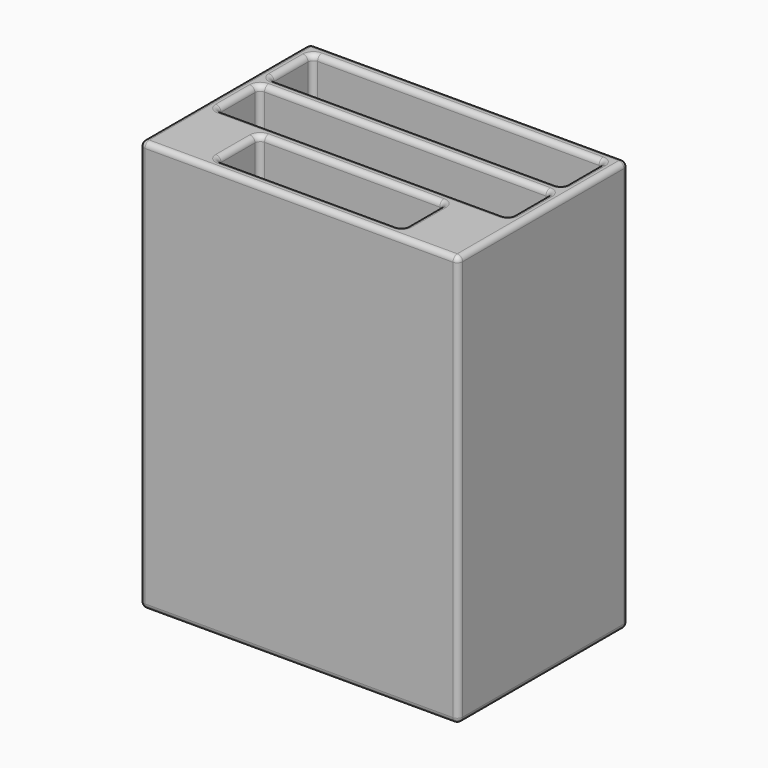
from build123d import *

# Parameters (mm, degrees)
SKETCH_W      = 60
SKETCH_H      = 40
PAD_DEPTH     = 2.5
SKETCH001_W   = 60
SKETCH001_H   = 40
SKETCH001_W_2 = 55
SKETCH001_H_2 = 10
SKETCH001_W_3 = 35
PAD001_DEPTH  = 75
FILLET_R      = 1


with BuildPart() as part:
    # Sketch → Pad (new body)
    with BuildSketch(Plane.XY):
        Rectangle(SKETCH_W, SKETCH_H)
    extrude(amount=PAD_DEPTH)

    # Sketch001 (on Face6 of Pad) → Pad001 (join)
    with BuildSketch(Plane.XY.offset(2.5)):
        Rectangle(SKETCH001_W, SKETCH001_H)
        with Locations((0, 12.5)):
            Rectangle(SKETCH001_W_2, SKETCH001_H_2, mode=Mode.SUBTRACT)
        Rectangle(SKETCH001_W_2, SKETCH001_H_2, mode=Mode.SUBTRACT)
        with Locations((0, -12.5)):
            Rectangle(SKETCH001_W_3, SKETCH001_H_2, mode=Mode.SUBTRACT)
    extrude(amount=PAD001_DEPTH)

    # Fillet
    fillet_edges = [part.edges().sort_by_distance(p)[0] for p in [
        (-30, 0, 0),
        (0, -20, 0),
        (30, 0, 0),
        (0, 20, 0),
        (-30, -20, 38.75),
        (-30, 0, 77.5),
        (-30, 20, 38.75),
        (0, -20, 77.5),
        (30, 0, 77.5),
        (0, 20, 77.5),
        (-27.5, 0, 77.5),
        (0, -5, 77.5),
        (27.5, 0, 77.5),
        (0, 5, 77.5),
        (-27.5, 12.5, 77.5),
        (0, 7.5, 77.5),
        (27.5, 12.5, 77.5),
        (0, 17.5, 77.5),
        (-17.5, -12.5, 77.5),
        (0, -17.5, 77.5),
        (17.5, -12.5, 77.5),
        (0, -7.5, 77.5),
        (-27.5, 5, 40),
        (-27.5, -5, 40),
        (-27.5, 0, 2.5),
        (27.5, -5, 40),
        (0, -5, 2.5),
        (27.5, 5, 40),
        (27.5, 0, 2.5),
        (0, 5, 2.5),
        (-27.5, 17.5, 40),
        (-27.5, 7.5, 40),
        (-27.5, 12.5, 2.5),
        (27.5, 7.5, 40),
        (0, 7.5, 2.5),
        (27.5, 17.5, 40),
        (27.5, 12.5, 2.5),
        (0, 17.5, 2.5),
        (-17.5, -7.5, 40),
        (-17.5, -17.5, 40),
        (-17.5, -12.5, 2.5),
        (17.5, -17.5, 40),
        (0, -17.5, 2.5),
        (17.5, -7.5, 40),
        (17.5, -12.5, 2.5),
        (0, -7.5, 2.5),
        (30, 20, 38.75),
        (30, -20, 38.75),
    ]]
    fillet(fillet_edges, radius=FILLET_R)


solid = part.part
